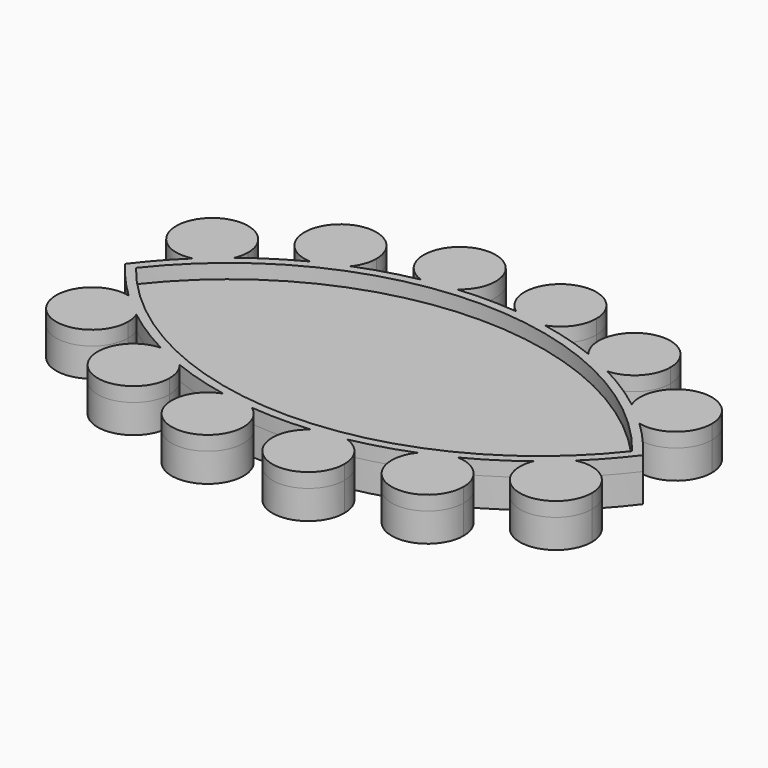
from build123d import *

# Parameters (mm, degrees)
F1_DEPTH = 1
F2_DEPTH = 2


with BuildPart() as f1:
    # F0 (on Top) → F1 (new body)
    with BuildSketch(Plane.XY):
        with BuildLine():
            ThreePointArc((15.5214287606, -2.7891144397), (16.8186306332, -1.4460250108), (18, 0))
            ThreePointArc((18, 0), (16.8186306332, 1.4460250108), (15.5214287606, 2.7891144397))
            ThreePointArc((15.5214287606, 2.7891144397), (14.485766929, 3.3226798245), (13.8043636496, 4.2676544381))
            ThreePointArc((13.8043636496, 4.2676544381), (12.1173841738, 5.458349105), (10.3283517045, 6.489375955))
            ThreePointArc((10.3283517045, 6.489375955), (9.1845929282, 6.7109686245), (8.2654491558, 7.4268332591))
            ThreePointArc((8.2654491558, 7.4268332591), (6.3121765318, 8.0964447868), (4.3057425571, 8.5841703723))
            ThreePointArc((4.3057425571, 8.5841703723), (3.1457489879, 8.4759928855), (2.062686691, 8.9052521435))
            ThreePointArc((2.062686691, 8.9052521435), (0, 9), (-2.062686691, 8.9052521435))
            ThreePointArc((-2.062686691, 8.9052521435), (-3.1457489879, 8.4759928855), (-4.3057425571, 8.5841703723))
            ThreePointArc((-4.3057425571, 8.5841703723), (-6.3121765318, 8.0964447868), (-8.2654491558, 7.4268332591))
            ThreePointArc((-8.2654491558, 7.4268332591), (-9.1845929282, 6.7109686245), (-10.3283517045, 6.489375955))
            ThreePointArc((-10.3283517045, 6.489375955), (-12.1173841738, 5.458349105), (-13.8043636496, 4.2676544381))
            ThreePointArc((-13.8043636496, 4.2676544381), (-14.485766929, 3.3226798245), (-15.5214287606, 2.7891144397))
            ThreePointArc((-15.5214287606, 2.7891144397), (-16.8186306332, 1.4460250108), (-18, 0))
            ThreePointArc((-18, 0), (-16.8186306332, -1.4460250108), (-15.5214287606, -2.7891144397))
            ThreePointArc((-15.5214287606, -2.7891144397), (-14.485766929, -3.3226798245), (-13.8043636496, -4.2676544381))
            ThreePointArc((-13.8043636496, -4.2676544381), (-12.1173841738, -5.458349105), (-10.3283517045, -6.489375955))
            ThreePointArc((-10.3283517045, -6.489375955), (-9.1845929282, -6.7109686245), (-8.2654491558, -7.4268332591))
            ThreePointArc((-8.2654491558, -7.4268332591), (-6.3121765318, -8.0964447868), (-4.3057425571, -8.5841703723))
            ThreePointArc((-4.3057425571, -8.5841703723), (-3.1457489879, -8.4759928855), (-2.062686691, -8.9052521435))
            ThreePointArc((-2.062686691, -8.9052521435), (0, -9), (2.062686691, -8.9052521435))
            ThreePointArc((2.062686691, -8.9052521435), (3.1457489879, -8.4759928855), (4.3057425571, -8.5841703723))
            ThreePointArc((4.3057425571, -8.5841703723), (6.3121765318, -8.0964447868), (8.2654491558, -7.4268332591))
            ThreePointArc((8.2654491558, -7.4268332591), (9.1845929282, -6.7109686245), (10.3283517045, -6.489375955))
            ThreePointArc((10.3283517045, -6.489375955), (12.1173841738, -5.458349105), (13.8043636496, -4.2676544381))
            ThreePointArc((13.8043636496, -4.2676544381), (14.485766929, -3.3226798245), (15.5214287606, -2.7891144397))
        make_face()
        with BuildLine():
            ThreePointArc((-17.2441294358, 0), (0, 8.4), (17.2441294358, 0))
            ThreePointArc((17.2441294358, 0), (0, -8.4), (-17.2441294358, 0))
        make_face(mode=Mode.SUBTRACT)
        with BuildLine():
            ThreePointArc((13.8043636496, 4.2676544381), (14.485766929, 3.3226798245), (15.5214287606, 2.7891144397))
            ThreePointArc((15.5214287606, 2.7891144397), (14.6815205361, 3.5500133357), (13.8043636496, 4.2676544381))
        make_face()
        with BuildLine():
            ThreePointArc((13.8043636496, 4.2676544381), (14.6815205361, 3.5500133357), (15.5214287606, 2.7891144397))
            ThreePointArc((15.5214287606, 2.7891144397), (17.6599265092, 3.2500154882), (18.6170469886, 5.2171257507))
            ThreePointArc((18.6170469886, 5.2171257507), (15.6331608178, 7.6698495782), (13.8043636496, 4.2676544381))
        make_face()
        with BuildLine():
            ThreePointArc((13.8043636496, -4.2676544381), (14.6815205361, -3.5500133357), (15.5214287606, -2.7891144397))
            ThreePointArc((15.5214287606, -2.7891144397), (14.485766929, -3.3226798245), (13.8043636496, -4.2676544381))
        make_face()
        with BuildLine():
            ThreePointArc((18.6170469886, -5.2171257507), (17.6599265092, -3.2500154882), (15.5214287606, -2.7891144397))
            ThreePointArc((15.5214287606, -2.7891144397), (14.6815205361, -3.5500133357), (13.8043636496, -4.2676544381))
            ThreePointArc((13.8043636496, -4.2676544381), (15.6331608178, -7.6698495782), (18.6170469886, -5.2171257507))
        make_face()
        with BuildLine():
            ThreePointArc((8.2654491558, 7.4268332591), (9.1845929282, 6.7109686245), (10.3283517045, 6.489375955))
            ThreePointArc((10.3283517045, 6.489375955), (9.3087090489, 6.9840898222), (8.2654491558, 7.4268332591))
        make_face()
        with BuildLine():
            ThreePointArc((8.2654491558, 7.4268332591), (9.3087090489, 6.9840898222), (10.3283517045, 6.489375955))
            ThreePointArc((10.3283517045, 6.489375955), (12.0249454871, 7.2583439451), (12.7188939337, 8.9869786048))
            ThreePointArc((12.7188939337, 8.9869786048), (9.3923384137, 11.3463865755), (8.2654491558, 7.4268332591))
        make_face()
        with BuildLine():
            ThreePointArc((8.2654491558, -7.4268332591), (9.3087090489, -6.9840898222), (10.3283517045, -6.489375955))
            ThreePointArc((10.3283517045, -6.489375955), (9.1845929282, -6.7109686245), (8.2654491558, -7.4268332591))
        make_face()
        with BuildLine():
            ThreePointArc((12.7188939337, -8.9869786048), (12.0249454871, -7.2583439451), (10.3283517045, -6.489375955))
            ThreePointArc((10.3283517045, -6.489375955), (9.3087090489, -6.9840898222), (8.2654491558, -7.4268332591))
            ThreePointArc((8.2654491558, -7.4268332591), (9.3923384137, -11.3463865755), (12.7188939337, -8.9869786048))
        make_face()
        with BuildLine():
            ThreePointArc((2.062686691, 8.9052521435), (3.1457489879, 8.4759928855), (4.3057425571, 8.5841703723))
            ThreePointArc((4.3057425571, 8.5841703723), (3.1882591093, 8.7729657624), (2.062686691, 8.9052521435))
        make_face()
        with BuildLine():
            ThreePointArc((2.062686691, 8.9052521435), (3.1882591093, 8.7729657624), (4.3057425571, 8.5841703723))
            ThreePointArc((4.3057425571, 8.5841703723), (5.5327759828, 9.4954930692), (6, 10.9507668591))
            ThreePointArc((6, 10.9507668591), (2.3474556999, 13.1692441829), (2.062686691, 8.9052521435))
        make_face()
        with BuildLine():
            ThreePointArc((2.062686691, -8.9052521435), (3.1882591093, -8.7729657624), (4.3057425571, -8.5841703723))
            ThreePointArc((4.3057425571, -8.5841703723), (3.1457489879, -8.4759928855), (2.062686691, -8.9052521435))
        make_face()
        with BuildLine():
            ThreePointArc((6, -10.9507668591), (5.5327759828, -9.4954930692), (4.3057425571, -8.5841703723))
            ThreePointArc((4.3057425571, -8.5841703723), (3.1882591093, -8.7729657624), (2.062686691, -8.9052521435))
            ThreePointArc((2.062686691, -8.9052521435), (2.3474556999, -13.1692441829), (6, -10.9507668591))
        make_face()
        with BuildLine():
            ThreePointArc((-4.3057425571, 8.5841703723), (-3.1457489879, 8.4759928855), (-2.062686691, 8.9052521435))
            ThreePointArc((-2.062686691, 8.9052521435), (-3.1882591093, 8.7729657624), (-4.3057425571, 8.5841703723))
        make_face()
        with BuildLine():
            ThreePointArc((-4.3057425571, 8.5841703723), (-3.1882591093, 8.7729657624), (-2.062686691, 8.9052521435))
            ThreePointArc((-2.062686691, 8.9052521435), (-1.2815226762, 9.798222559), (-1, 10.9507668591))
            ThreePointArc((-1, 10.9507668591), (-4.9552737899, 12.983542842), (-4.3057425571, 8.5841703723))
        make_face()
        with BuildLine():
            ThreePointArc((-1, -10.9507668591), (-1.2815226762, -9.798222559), (-2.062686691, -8.9052521435))
            ThreePointArc((-2.062686691, -8.9052521435), (-3.1882591093, -8.7729657624), (-4.3057425571, -8.5841703723))
            ThreePointArc((-4.3057425571, -8.5841703723), (-4.9552737899, -12.983542842), (-1, -10.9507668591))
        make_face()
        with BuildLine():
            ThreePointArc((-4.3057425571, -8.5841703723), (-3.1882591093, -8.7729657624), (-2.062686691, -8.9052521435))
            ThreePointArc((-2.062686691, -8.9052521435), (-3.1457489879, -8.4759928855), (-4.3057425571, -8.5841703723))
        make_face()
        with BuildLine():
            ThreePointArc((-10.3283517045, 6.489375955), (-9.1845929282, 6.7109686245), (-8.2654491558, 7.4268332591))
            ThreePointArc((-8.2654491558, 7.4268332591), (-9.3087090489, 6.9840898222), (-10.3283517045, 6.489375955))
        make_face()
        with BuildLine():
            ThreePointArc((-10.3283517045, 6.489375955), (-9.3087090489, 6.9840898222), (-8.2654491558, 7.4268332591))
            ThreePointArc((-8.2654491558, 7.4268332591), (-7.859485963, 8.1604230848), (-7.7188939337, 8.9869786048))
            ThreePointArc((-7.7188939337, 8.9869786048), (-11.9475285933, 10.7930301582), (-10.3283517045, 6.489375955))
        make_face()
        with BuildLine():
            ThreePointArc((-10.3283517045, -6.489375955), (-9.3087090489, -6.9840898222), (-8.2654491558, -7.4268332591))
            ThreePointArc((-8.2654491558, -7.4268332591), (-9.1845929282, -6.7109686245), (-10.3283517045, -6.489375955))
        make_face()
        with BuildLine():
            ThreePointArc((-7.7188939337, -8.9869786048), (-7.859485963, -8.1604230848), (-8.2654491558, -7.4268332591))
            ThreePointArc((-8.2654491558, -7.4268332591), (-9.3087090489, -6.9840898222), (-10.3283517045, -6.489375955))
            ThreePointArc((-10.3283517045, -6.489375955), (-11.9475285933, -10.7930301582), (-7.7188939337, -8.9869786048))
        make_face()
        with BuildLine():
            ThreePointArc((-15.5214287606, 2.7891144397), (-14.485766929, 3.3226798245), (-13.8043636496, 4.2676544381))
            ThreePointArc((-13.8043636496, 4.2676544381), (-14.6815205361, 3.5500133357), (-15.5214287606, 2.7891144397))
        make_face()
        with BuildLine():
            ThreePointArc((-15.5214287606, 2.7891144397), (-14.6815205361, 3.5500133357), (-13.8043636496, 4.2676544381))
            ThreePointArc((-13.8043636496, 4.2676544381), (-13.6643231611, 4.73323958), (-13.6170469886, 5.2171257507))
            ThreePointArc((-13.6170469886, 5.2171257507), (-18.0841572511, 6.7600052713), (-15.5214287606, 2.7891144397))
        make_face()
        with BuildLine():
            ThreePointArc((-13.6170469886, -5.2171257507), (-13.6643231611, -4.73323958), (-13.8043636496, -4.2676544381))
            ThreePointArc((-13.8043636496, -4.2676544381), (-14.6815205361, -3.5500133357), (-15.5214287606, -2.7891144397))
            ThreePointArc((-15.5214287606, -2.7891144397), (-18.0841572511, -6.7600052713), (-13.6170469886, -5.2171257507))
        make_face()
        with BuildLine():
            ThreePointArc((-15.5214287606, -2.7891144397), (-14.6815205361, -3.5500133357), (-13.8043636496, -4.2676544381))
            ThreePointArc((-13.8043636496, -4.2676544381), (-14.485766929, -3.3226798245), (-15.5214287606, -2.7891144397))
        make_face()
    extrude(amount=F1_DEPTH)


with BuildPart() as f2:
    # F0 (on Top) → F2 (new body)
    with BuildSketch(Plane.XY):
        with BuildLine():
            ThreePointArc((15.5214287606, -2.7891144397), (16.8186306332, -1.4460250108), (18, 0))
            ThreePointArc((18, 0), (16.8186306332, 1.4460250108), (15.5214287606, 2.7891144397))
            ThreePointArc((15.5214287606, 2.7891144397), (14.485766929, 3.3226798245), (13.8043636496, 4.2676544381))
            ThreePointArc((13.8043636496, 4.2676544381), (12.1173841738, 5.458349105), (10.3283517045, 6.489375955))
            ThreePointArc((10.3283517045, 6.489375955), (9.1845929282, 6.7109686245), (8.2654491558, 7.4268332591))
            ThreePointArc((8.2654491558, 7.4268332591), (6.3121765318, 8.0964447868), (4.3057425571, 8.5841703723))
            ThreePointArc((4.3057425571, 8.5841703723), (3.1457489879, 8.4759928855), (2.062686691, 8.9052521435))
            ThreePointArc((2.062686691, 8.9052521435), (0, 9), (-2.062686691, 8.9052521435))
            ThreePointArc((-2.062686691, 8.9052521435), (-3.1457489879, 8.4759928855), (-4.3057425571, 8.5841703723))
            ThreePointArc((-4.3057425571, 8.5841703723), (-6.3121765318, 8.0964447868), (-8.2654491558, 7.4268332591))
            ThreePointArc((-8.2654491558, 7.4268332591), (-9.1845929282, 6.7109686245), (-10.3283517045, 6.489375955))
            ThreePointArc((-10.3283517045, 6.489375955), (-12.1173841738, 5.458349105), (-13.8043636496, 4.2676544381))
            ThreePointArc((-13.8043636496, 4.2676544381), (-14.485766929, 3.3226798245), (-15.5214287606, 2.7891144397))
            ThreePointArc((-15.5214287606, 2.7891144397), (-16.8186306332, 1.4460250108), (-18, 0))
            ThreePointArc((-18, 0), (-16.8186306332, -1.4460250108), (-15.5214287606, -2.7891144397))
            ThreePointArc((-15.5214287606, -2.7891144397), (-14.485766929, -3.3226798245), (-13.8043636496, -4.2676544381))
            ThreePointArc((-13.8043636496, -4.2676544381), (-12.1173841738, -5.458349105), (-10.3283517045, -6.489375955))
            ThreePointArc((-10.3283517045, -6.489375955), (-9.1845929282, -6.7109686245), (-8.2654491558, -7.4268332591))
            ThreePointArc((-8.2654491558, -7.4268332591), (-6.3121765318, -8.0964447868), (-4.3057425571, -8.5841703723))
            ThreePointArc((-4.3057425571, -8.5841703723), (-3.1457489879, -8.4759928855), (-2.062686691, -8.9052521435))
            ThreePointArc((-2.062686691, -8.9052521435), (0, -9), (2.062686691, -8.9052521435))
            ThreePointArc((2.062686691, -8.9052521435), (3.1457489879, -8.4759928855), (4.3057425571, -8.5841703723))
            ThreePointArc((4.3057425571, -8.5841703723), (6.3121765318, -8.0964447868), (8.2654491558, -7.4268332591))
            ThreePointArc((8.2654491558, -7.4268332591), (9.1845929282, -6.7109686245), (10.3283517045, -6.489375955))
            ThreePointArc((10.3283517045, -6.489375955), (12.1173841738, -5.458349105), (13.8043636496, -4.2676544381))
            ThreePointArc((13.8043636496, -4.2676544381), (14.485766929, -3.3226798245), (15.5214287606, -2.7891144397))
        make_face()
        with BuildLine():
            ThreePointArc((-17.2441294358, 0), (0, 8.4), (17.2441294358, 0))
            ThreePointArc((17.2441294358, 0), (0, -8.4), (-17.2441294358, 0))
        make_face(mode=Mode.SUBTRACT)
        with BuildLine():
            ThreePointArc((13.8043636496, 4.2676544381), (14.485766929, 3.3226798245), (15.5214287606, 2.7891144397))
            ThreePointArc((15.5214287606, 2.7891144397), (14.6815205361, 3.5500133357), (13.8043636496, 4.2676544381))
        make_face()
        with BuildLine():
            ThreePointArc((13.8043636496, 4.2676544381), (14.6815205361, 3.5500133357), (15.5214287606, 2.7891144397))
            ThreePointArc((15.5214287606, 2.7891144397), (17.6599265092, 3.2500154882), (18.6170469886, 5.2171257507))
            ThreePointArc((18.6170469886, 5.2171257507), (15.6331608178, 7.6698495782), (13.8043636496, 4.2676544381))
        make_face()
        with BuildLine():
            ThreePointArc((13.8043636496, -4.2676544381), (14.6815205361, -3.5500133357), (15.5214287606, -2.7891144397))
            ThreePointArc((15.5214287606, -2.7891144397), (14.485766929, -3.3226798245), (13.8043636496, -4.2676544381))
        make_face()
        with BuildLine():
            ThreePointArc((18.6170469886, -5.2171257507), (17.6599265092, -3.2500154882), (15.5214287606, -2.7891144397))
            ThreePointArc((15.5214287606, -2.7891144397), (14.6815205361, -3.5500133357), (13.8043636496, -4.2676544381))
            ThreePointArc((13.8043636496, -4.2676544381), (15.6331608178, -7.6698495782), (18.6170469886, -5.2171257507))
        make_face()
        with BuildLine():
            ThreePointArc((8.2654491558, 7.4268332591), (9.1845929282, 6.7109686245), (10.3283517045, 6.489375955))
            ThreePointArc((10.3283517045, 6.489375955), (9.3087090489, 6.9840898222), (8.2654491558, 7.4268332591))
        make_face()
        with BuildLine():
            ThreePointArc((8.2654491558, 7.4268332591), (9.3087090489, 6.9840898222), (10.3283517045, 6.489375955))
            ThreePointArc((10.3283517045, 6.489375955), (12.0249454871, 7.2583439451), (12.7188939337, 8.9869786048))
            ThreePointArc((12.7188939337, 8.9869786048), (9.3923384137, 11.3463865755), (8.2654491558, 7.4268332591))
        make_face()
        with BuildLine():
            ThreePointArc((8.2654491558, -7.4268332591), (9.3087090489, -6.9840898222), (10.3283517045, -6.489375955))
            ThreePointArc((10.3283517045, -6.489375955), (9.1845929282, -6.7109686245), (8.2654491558, -7.4268332591))
        make_face()
        with BuildLine():
            ThreePointArc((12.7188939337, -8.9869786048), (12.0249454871, -7.2583439451), (10.3283517045, -6.489375955))
            ThreePointArc((10.3283517045, -6.489375955), (9.3087090489, -6.9840898222), (8.2654491558, -7.4268332591))
            ThreePointArc((8.2654491558, -7.4268332591), (9.3923384137, -11.3463865755), (12.7188939337, -8.9869786048))
        make_face()
        with BuildLine():
            ThreePointArc((2.062686691, 8.9052521435), (3.1457489879, 8.4759928855), (4.3057425571, 8.5841703723))
            ThreePointArc((4.3057425571, 8.5841703723), (3.1882591093, 8.7729657624), (2.062686691, 8.9052521435))
        make_face()
        with BuildLine():
            ThreePointArc((2.062686691, 8.9052521435), (3.1882591093, 8.7729657624), (4.3057425571, 8.5841703723))
            ThreePointArc((4.3057425571, 8.5841703723), (5.5327759828, 9.4954930692), (6, 10.9507668591))
            ThreePointArc((6, 10.9507668591), (2.3474556999, 13.1692441829), (2.062686691, 8.9052521435))
        make_face()
        with BuildLine():
            ThreePointArc((2.062686691, -8.9052521435), (3.1882591093, -8.7729657624), (4.3057425571, -8.5841703723))
            ThreePointArc((4.3057425571, -8.5841703723), (3.1457489879, -8.4759928855), (2.062686691, -8.9052521435))
        make_face()
        with BuildLine():
            ThreePointArc((6, -10.9507668591), (5.5327759828, -9.4954930692), (4.3057425571, -8.5841703723))
            ThreePointArc((4.3057425571, -8.5841703723), (3.1882591093, -8.7729657624), (2.062686691, -8.9052521435))
            ThreePointArc((2.062686691, -8.9052521435), (2.3474556999, -13.1692441829), (6, -10.9507668591))
        make_face()
        with BuildLine():
            ThreePointArc((-4.3057425571, 8.5841703723), (-3.1457489879, 8.4759928855), (-2.062686691, 8.9052521435))
            ThreePointArc((-2.062686691, 8.9052521435), (-3.1882591093, 8.7729657624), (-4.3057425571, 8.5841703723))
        make_face()
        with BuildLine():
            ThreePointArc((-4.3057425571, 8.5841703723), (-3.1882591093, 8.7729657624), (-2.062686691, 8.9052521435))
            ThreePointArc((-2.062686691, 8.9052521435), (-1.2815226762, 9.798222559), (-1, 10.9507668591))
            ThreePointArc((-1, 10.9507668591), (-4.9552737899, 12.983542842), (-4.3057425571, 8.5841703723))
        make_face()
        with BuildLine():
            ThreePointArc((-1, -10.9507668591), (-1.2815226762, -9.798222559), (-2.062686691, -8.9052521435))
            ThreePointArc((-2.062686691, -8.9052521435), (-3.1882591093, -8.7729657624), (-4.3057425571, -8.5841703723))
            ThreePointArc((-4.3057425571, -8.5841703723), (-4.9552737899, -12.983542842), (-1, -10.9507668591))
        make_face()
        with BuildLine():
            ThreePointArc((-4.3057425571, -8.5841703723), (-3.1882591093, -8.7729657624), (-2.062686691, -8.9052521435))
            ThreePointArc((-2.062686691, -8.9052521435), (-3.1457489879, -8.4759928855), (-4.3057425571, -8.5841703723))
        make_face()
        with BuildLine():
            ThreePointArc((-10.3283517045, 6.489375955), (-9.1845929282, 6.7109686245), (-8.2654491558, 7.4268332591))
            ThreePointArc((-8.2654491558, 7.4268332591), (-9.3087090489, 6.9840898222), (-10.3283517045, 6.489375955))
        make_face()
        with BuildLine():
            ThreePointArc((-10.3283517045, 6.489375955), (-9.3087090489, 6.9840898222), (-8.2654491558, 7.4268332591))
            ThreePointArc((-8.2654491558, 7.4268332591), (-7.859485963, 8.1604230848), (-7.7188939337, 8.9869786048))
            ThreePointArc((-7.7188939337, 8.9869786048), (-11.9475285933, 10.7930301582), (-10.3283517045, 6.489375955))
        make_face()
        with BuildLine():
            ThreePointArc((-10.3283517045, -6.489375955), (-9.3087090489, -6.9840898222), (-8.2654491558, -7.4268332591))
            ThreePointArc((-8.2654491558, -7.4268332591), (-9.1845929282, -6.7109686245), (-10.3283517045, -6.489375955))
        make_face()
        with BuildLine():
            ThreePointArc((-7.7188939337, -8.9869786048), (-7.859485963, -8.1604230848), (-8.2654491558, -7.4268332591))
            ThreePointArc((-8.2654491558, -7.4268332591), (-9.3087090489, -6.9840898222), (-10.3283517045, -6.489375955))
            ThreePointArc((-10.3283517045, -6.489375955), (-11.9475285933, -10.7930301582), (-7.7188939337, -8.9869786048))
        make_face()
        with BuildLine():
            ThreePointArc((-15.5214287606, 2.7891144397), (-14.485766929, 3.3226798245), (-13.8043636496, 4.2676544381))
            ThreePointArc((-13.8043636496, 4.2676544381), (-14.6815205361, 3.5500133357), (-15.5214287606, 2.7891144397))
        make_face()
        with BuildLine():
            ThreePointArc((-15.5214287606, 2.7891144397), (-14.6815205361, 3.5500133357), (-13.8043636496, 4.2676544381))
            ThreePointArc((-13.8043636496, 4.2676544381), (-13.6643231611, 4.73323958), (-13.6170469886, 5.2171257507))
            ThreePointArc((-13.6170469886, 5.2171257507), (-18.0841572511, 6.7600052713), (-15.5214287606, 2.7891144397))
        make_face()
        with BuildLine():
            ThreePointArc((-13.6170469886, -5.2171257507), (-13.6643231611, -4.73323958), (-13.8043636496, -4.2676544381))
            ThreePointArc((-13.8043636496, -4.2676544381), (-14.6815205361, -3.5500133357), (-15.5214287606, -2.7891144397))
            ThreePointArc((-15.5214287606, -2.7891144397), (-18.0841572511, -6.7600052713), (-13.6170469886, -5.2171257507))
        make_face()
        with BuildLine():
            ThreePointArc((-15.5214287606, -2.7891144397), (-14.6815205361, -3.5500133357), (-13.8043636496, -4.2676544381))
            ThreePointArc((-13.8043636496, -4.2676544381), (-14.485766929, -3.3226798245), (-15.5214287606, -2.7891144397))
        make_face()
        with BuildLine():
            ThreePointArc((-17.2441294358, 0), (0, -8.4), (17.2441294358, 0))
            ThreePointArc((17.2441294358, 0), (0, 8.4), (-17.2441294358, 0))
        make_face()
    extrude(amount=F2_DEPTH)


with BuildPart() as f1_1:
    # F3: moved
    add(f1.part.moved(Location((0, 0, 2))))


solid = Compound([f2.part, f1_1.part])
